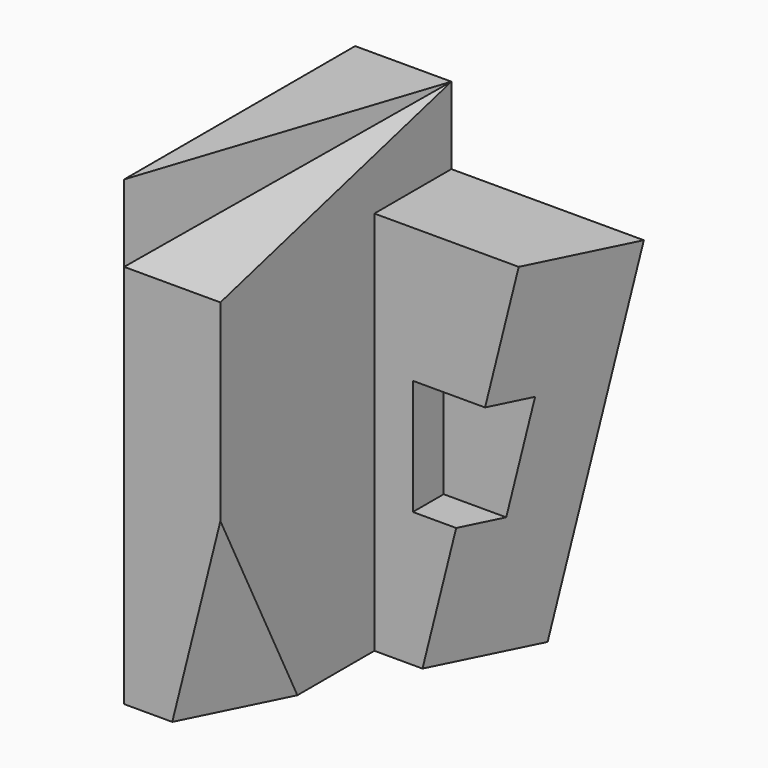
from build123d import *

# Parameters (mm, degrees)
F0_W      = 25
F0_H      = 75
F1_DEPTH  = 120
F6_W      = 25
F6_H      = 20
F12_W     = 35
F12_H     = 30
F13_DEPTH = 60


with BuildPart() as f1:
    # F0 (on Top) → F1 (new body)
    with BuildSketch(Plane.XY):
        with Locations((12.5, 37.5)):
            Rectangle(F0_W, F0_H)
    extrude(amount=F1_DEPTH)

    # F2 (on Top) → F5 section 0
    with BuildSketch(Plane.XY):
        Polygon((50, 75), (25, 75), (25, 50), (37.5, 50), align=None)
    # F4 (on offset) → F5 section 1
    with BuildSketch(Plane.XY.offset(100)):
        Polygon((75, 75), (25, 75), (25, 50), (62.5, 50), align=None)
    loft()

    # F6 (on face) → F8 section 0
    with BuildSketch(Plane.XZ, mode=Mode.PRIVATE) as f8_s0:
        with Locations((12.5, 110)):
            Rectangle(F6_W, F6_H)
    loft([f8_s0.sketch, Vertex(25, 75, 120)], mode=Mode.SUBTRACT)

    # F9 (on face) → F11 section 0
    with BuildSketch(Plane(origin=(0, 0, 0), x_dir=(1, 0, 0), z_dir=(0, 0, -1)), mode=Mode.PRIVATE) as f11_s0:
        Polygon((25, 0), (12.5, 0), (25, -25), align=None)
    loft([f11_s0.sketch, Vertex(25, 0, 50)], mode=Mode.SUBTRACT)

    # F12 (on face) → F13 (cut)
    with BuildSketch(Plane.XZ):
        with Locations((52.5, 50)):
            Rectangle(F12_W, F12_H)
    extrude(amount=-F13_DEPTH, mode=Mode.SUBTRACT)


solid = f1.part
